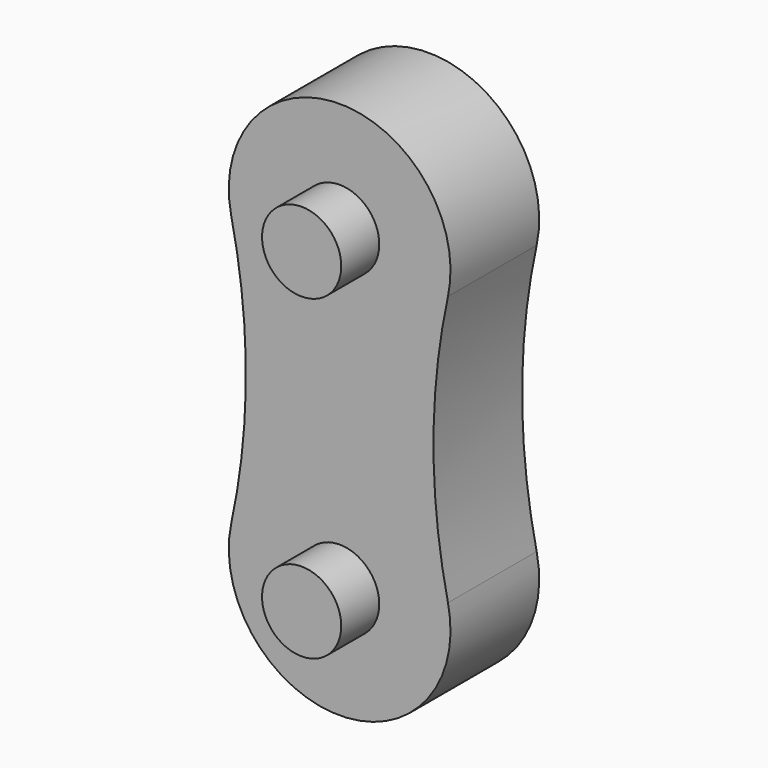
from build123d import *

# Parameters (mm, degrees)
F0_R     = 2.5
F1_DEPTH = 3.5
F2_R     = 2.5
F3_DEPTH = 6.5


with BuildPart() as f1:
    # F0 (on Front) → F1 (new body, symmetric)
    with BuildSketch(Plane.XZ):
        with BuildLine():
            ThreePointArc((54.518331, 30.600595), (55.434331, 22.08937), (54.518331, 13.578145))
            ThreePointArc((54.518331, 13.578145), (61.358031, 5.088681), (68.197731, 13.578145))
            ThreePointArc((68.197731, 13.578145), (67.281731, 22.08937), (68.197731, 30.600595))
            ThreePointArc((68.197731, 30.600595), (61.358031, 39.090059), (54.518331, 30.600595))
        make_face()
        with Locations((61.358031, 12.088681)):
            Circle(F0_R, mode=Mode.SUBTRACT)
        with Locations((61.358031, 32.090059)):
            Circle(F0_R, mode=Mode.SUBTRACT)
    extrude(amount=F1_DEPTH, both=True)

    # F2 (on Front) → F3 (join, symmetric)
    with BuildSketch(Plane.XZ):
        with Locations((61.358031, 32.090059)):
            Circle(F2_R)
        with Locations((61.358031, 12.088681)):
            Circle(F2_R)
    extrude(amount=F3_DEPTH, both=True)


solid = f1.part
